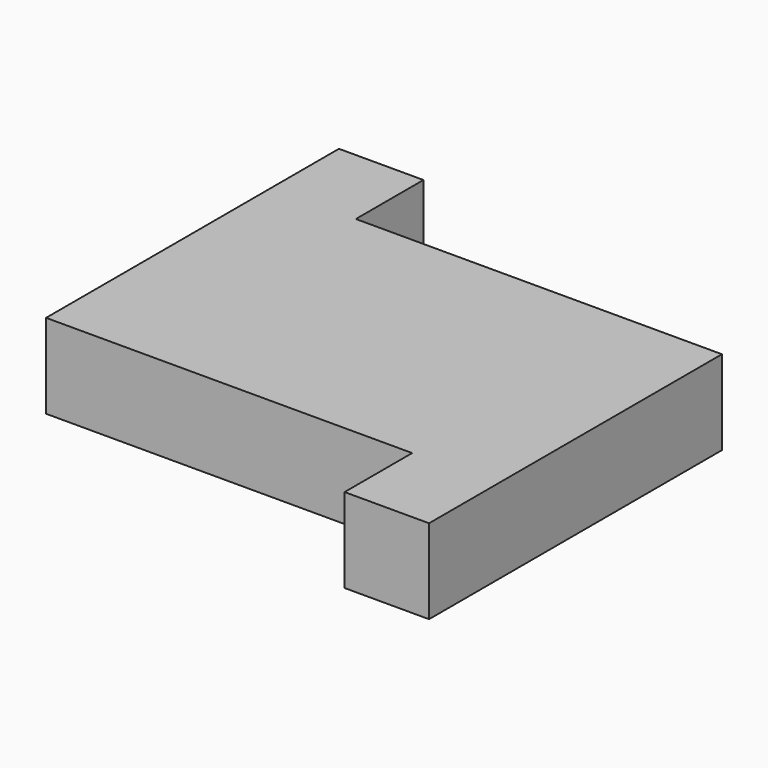
from build123d import *

# Parameters (mm, degrees)
F3_W     = 3
F3_H     = 5
F3_H_2   = 3
F4_DEPTH = 3


with BuildPart() as f4:
    # F3 (on face) → F4 (new body)
    with BuildSketch(Plane.XY.offset(5)):
        Polygon((-5, 0), (-5, -5), (0, -5), (5, -5), (5, 0), (5, 5), (0, 5), (-5, 5), align=None)
        with Locations((-6.5, 2.5)):
            Rectangle(F3_W, F3_H)
        with Locations((-6.5, 6.5)):
            Rectangle(F3_W, F3_H_2)
        with Locations((6.5, -2.5)):
            Rectangle(F3_W, F3_H)
        with Locations((6.5, -6.5)):
            Rectangle(F3_W, F3_H_2)
        with Locations((-6.5, -2.5)):
            Rectangle(F3_W, F3_H)
        with Locations((6.5, 2.5)):
            Rectangle(F3_W, F3_H)
    extrude(amount=F4_DEPTH)


solid = f4.part
